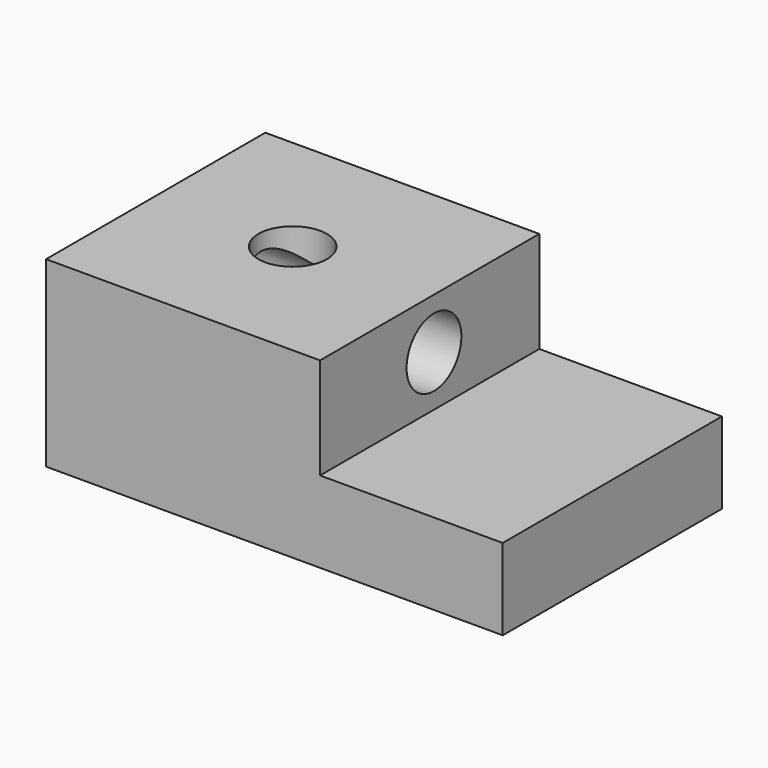
from build123d import *

# Parameters (mm, degrees)
F1_DEPTH = 76.2
F3_D     = 19.05
F5_D     = 19.05


with BuildPart() as f1:
    # F0 (on Front) → F1 (new body)
    with BuildSketch(Plane.XZ):
        Polygon((-50.8, -75.233199), (-127, -75.233199), (-127, -126.033199), (0, -126.033199), (0, -103.410661), (-50.8, -103.410661), align=None)
    extrude(amount=F1_DEPTH)

    # F3 (through all)
    with Locations(Plane.YZ.offset(-50.8)):
        with Locations((-36.601152, -89.32193)):
            Hole(F3_D / 2)

    # F5 (through all)
    with Locations(Plane.XY.offset(-75.233199)):
        with Locations((-88.9, -38.1)):
            Hole(F5_D / 2)


solid = f1.part
